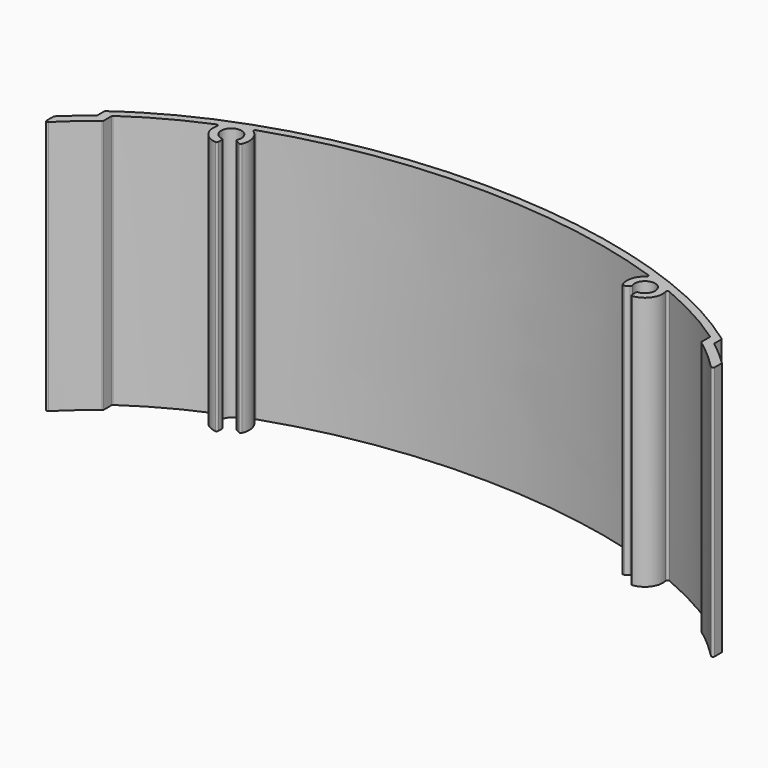
from build123d import *

# Parameters (mm, degrees)
F1_DEPTH = 80


with BuildPart() as f1:
    # F0 (on Top) → F1 (new body)
    with BuildSketch(Plane.XY):
        with BuildLine():
            ThreePointArc((-65.4324324324, 54.1293530327), (-66.6, 60.0712812921), (-62.0379229637, 56.0891739882))
            ThreePointArc((-62.0379229637, 56.0891739882), (-62.0481885263, 55.7381622841), (-61.8250984267, 55.466969722))
            Line((-61.8250984267, 55.466969722), (-60.5610389729, 54.7371646561))
            ThreePointArc((-60.5610389729, 54.7371646561), (-60.158309838, 54.6940746261), (-59.8558000382, 54.9633984607))
            ThreePointArc((-59.8558000382, 54.9633984607), (-59.5510675189, 58.7938657291), (-61.7666685688, 61.9333646366))
            ThreePointArc((-61.7666685688, 61.9333646366), (-61.9757131078, 62.4126551487), (-61.643191067, 62.8161995782))
            add(Edge.make_bspline(
                [(61.643191067, 62.8161995782), (0, 84.0232700392), (-61.643191067, 62.8161995782)],
                knots=[4.1860288487, 4.1860288487, 4.1860288487, 5.2387491121, 5.2387491121, 5.2387491121], degree=2, weights=[1, 0.8646414257, 1]))
            ThreePointArc((61.643191067, 62.8161995782), (61.9757131078, 62.4126551487), (61.7666685688, 61.9333646366))
            ThreePointArc((61.7666685688, 61.9333646366), (59.5510675189, 58.7938657291), (59.8558000382, 54.9633984607))
            ThreePointArc((59.8558000382, 54.9633984607), (60.158309838, 54.6940746261), (60.5610389729, 54.7371646561))
            Line((60.5610389729, 54.7371646561), (61.8250984267, 55.466969722))
            ThreePointArc((61.8250984267, 55.466969722), (62.0481885263, 55.7381622841), (62.0379229637, 56.0891739882))
            ThreePointArc((62.0379229637, 56.0891739882), (66.6, 60.0712812921), (65.4324324324, 54.1293530327))
            ThreePointArc((65.4324324324, 54.1293530327), (65.1233145982, 53.9627374186), (65, 53.633939444))
            Line((65, 53.633939444), (65, 52.1743293122))
            ThreePointArc((65, 52.1743293122), (65.1640475068, 51.8040106355), (65.5485436893, 51.6766913813))
            ThreePointArc((65.5485436893, 51.6766913813), (69.5962981984, 54.0141906825), (70.4982799093, 58.6005452853))
            ThreePointArc((70.4982799093, 58.6005452853), (70.6619791784, 59.0974129416), (71.1791287009, 59.176351462))
            add(Edge.make_bspline(
                [(93.7872522609, 46.84377686), (83.7981123491, 53.8551344377), (71.1791287009, 59.176351462)],
                knots=[3.842337264, 3.842337264, 3.842337264, 4.0935289354, 4.0935289354, 4.0935289354], degree=2, weights=[1, 0.9921232054, 1]))
            ThreePointArc((93.7872522609, 46.84377686), (93.9436361856, 46.6651490839), (94, 46.4345261562))
            Line((94, 46.4345261562), (94, 43.3736786648))
            ThreePointArc((94, 43.3736786648), (94.0533473134, 43.1489535493), (94.2020055102, 42.9721823585))
            add(Edge.make_bspline(
                [(104.1417965831, 34.3381809195), (99.7269376988, 38.8715235905), (94.2020055102, 42.9721823585)],
                knots=[3.6571392728, 3.6571392728, 3.6571392728, 3.8064834378, 3.8064834378, 3.8064834378], degree=2, weights=[1, 0.9972133353, 1]))
            ThreePointArc((104.1417965831, 34.3381809195), (104.6882794353, 34.2238259596), (105, 34.6870223048))
            Line((105, 34.6870223048), (105, 37.3782928471))
            ThreePointArc((105, 37.3782928471), (104.9606726114, 37.5726655435), (104.8488770195, 37.7364615577))
            add(Edge.make_bspline(
                [(104.8488770195, 37.7364615577), (101.3300513539, 41.1640010776), (97.1953377723, 44.3413442293)],
                knots=[3.6877743614, 3.6877743614, 3.6877743614, 3.7980848797, 3.7980848797, 3.7980848797], degree=2, weights=[1, 0.9984793343, 1]))
            ThreePointArc((97.1953377723, 44.3413442293), (97.0514851653, 44.5168195632), (97, 44.737804728))
            Line((97, 44.737804728), (97, 47.2606454567))
            ThreePointArc((97, 47.2606454567), (96.9458821151, 47.4868956267), (96.7952434423, 47.664169074))
            add(Edge.make_bspline(
                [(96.7952434423, 47.664169074), (0, 118.485701308), (-96.7952434423, 47.664169074)],
                knots=[3.8286355484, 3.8286355484, 3.8286355484, 5.5961424124, 5.5961424124, 5.5961424124], degree=2, weights=[1, 0.6342537468, 1]))
            ThreePointArc((-96.7952434423, 47.664169074), (-96.9458821151, 47.4868956267), (-97, 47.2606454567))
            Line((-97, 47.2606454567), (-97, 44.737804728))
            ThreePointArc((-97, 44.737804728), (-97.0514851653, 44.5168195632), (-97.1953377723, 44.3413442293))
            add(Edge.make_bspline(
                [(-97.1953377723, 44.3413442293), (-101.3300513539, 41.1640010776), (-104.8488770195, 37.7364615577)],
                knots=[5.6266930811, 5.6266930811, 5.6266930811, 5.7370035993, 5.7370035993, 5.7370035993], degree=2, weights=[1, 0.9984793343, 1]))
            ThreePointArc((-104.8488770195, 37.7364615577), (-104.9606726114, 37.5726655435), (-105, 37.3782928471))
            Line((-105, 37.3782928471), (-105, 34.6870223048))
            ThreePointArc((-105, 34.6870223048), (-104.6882794353, 34.2238259596), (-104.1417965831, 34.3381809195))
            add(Edge.make_bspline(
                [(-94.2020055102, 42.9721823585), (-99.7269376988, 38.8715235905), (-104.1417965831, 34.3381809195)],
                knots=[5.6182945229, 5.6182945229, 5.6182945229, 5.7676386879, 5.7676386879, 5.7676386879], degree=2, weights=[1, 0.9972133353, 1]))
            ThreePointArc((-94.2020055102, 42.9721823585), (-94.0533473134, 43.1489535493), (-94, 43.3736786648))
            Line((-94, 43.3736786648), (-94, 46.4345261562))
            ThreePointArc((-94, 46.4345261562), (-93.9436361856, 46.6651490839), (-93.7872522609, 46.84377686))
            add(Edge.make_bspline(
                [(-71.1791287009, 59.176351462), (-83.7981123491, 53.8551344377), (-93.7872522609, 46.84377686)],
                knots=[5.3312490254, 5.3312490254, 5.3312490254, 5.5824406968, 5.5824406968, 5.5824406968], degree=2, weights=[1, 0.9921232054, 1]))
            ThreePointArc((-71.1791287009, 59.176351462), (-70.6619791784, 59.0974129416), (-70.4982799093, 58.6005452853))
            ThreePointArc((-70.4982799093, 58.6005452853), (-69.5962981984, 54.0141906825), (-65.5485436893, 51.6766913813))
            ThreePointArc((-65.5485436893, 51.6766913813), (-65.1640475068, 51.8040106355), (-65, 52.1743293122))
            Line((-65, 52.1743293122), (-65, 53.633939444))
            ThreePointArc((-65, 53.633939444), (-65.1233145982, 53.9627374186), (-65.4324324324, 54.1293530327))
        make_face()
    extrude(amount=F1_DEPTH)


solid = f1.part
